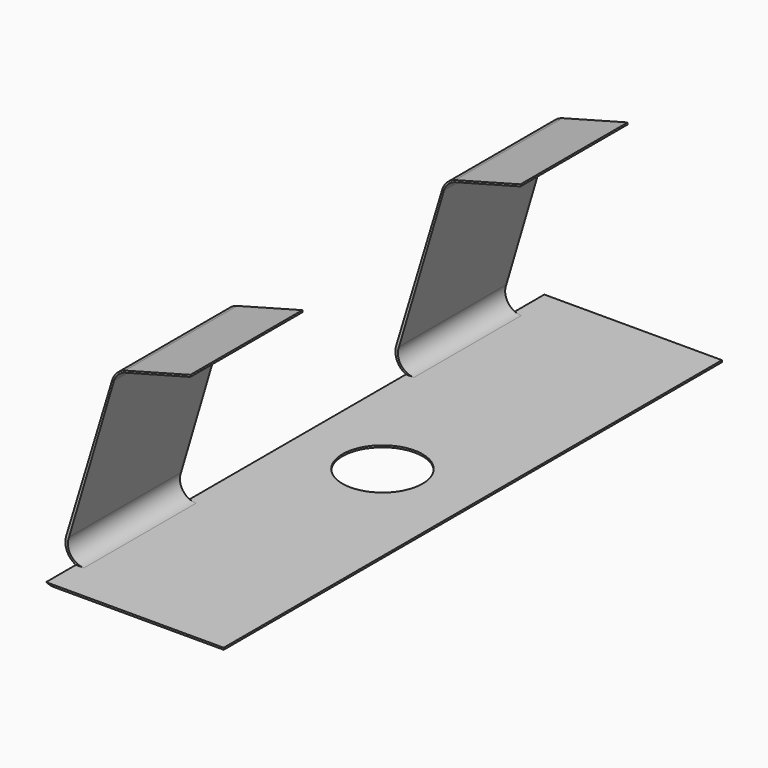
from build123d import *

# Parameters (mm, degrees)
F1_DEPTH = 25.4
F3_W     = 8.148129
F3_H     = 5.55625
F3_W_2   = 7.948229
F3_H_2   = 1.5875
F3_W_3   = 8.837929
F4_DEPTH = 25.4
F5_R     = 1.633227
F6_DEPTH = 25.4


with BuildPart() as f1:
    # F0 (on Front) → F1 (new body)
    with BuildSketch(Plane.XZ):
        with BuildLine():
            Line((-0.561085, 0), (0, 0))
            Line((0, 0), (6.35, 0))
            Line((6.35, 0), (6.35, 0.0762))
            Line((6.35, 0.0762), (-0.561085, 0.0762))
            ThreePointArc((-0.561085, 0.0762), (-1.107829, 0.366771), (-1.172913, 0.982501))
            Line((-1.172913, 0.982501), (0.660235, 7.192055))
            ThreePointArc((0.660235, 7.192055), (0.833247, 7.470557), (1.118945, 7.631408))
            Line((1.118945, 7.631408), (3.776279, 8.343177))
            Line((3.776279, 8.343177), (3.776279, 8.419377))
            Line((3.776279, 8.419377), (1.118945, 7.707608))
            ThreePointArc((1.118945, 7.707608), (0.785934, 7.518885), (0.586698, 7.192055))
            Line((0.586698, 7.192055), (-1.290484, 0.982501))
            ThreePointArc((-1.290484, 0.982501), (-1.172913, 0.307785), (-0.561085, 0))
        make_face()
    extrude(amount=F1_DEPTH)

    # F3 (on offset) → F4 (cut)
    with BuildSketch(Plane.XY.offset(0.0762)):
        with Locations((1.40282, -9.833681)):
            Rectangle(F3_W, F3_H)
        with Locations((0.910564, -0.79375)):
            Rectangle(F3_W_2, F3_H_2)
        with Locations((3.026584, -24.674151)):
            Rectangle(F3_W_3, F3_H_2)
        with Locations((1.40282, -15.389931)):
            Rectangle(F3_W, F3_H)
    extrude(amount=F4_DEPTH, mode=Mode.SUBTRACT)

    # F5 (on face) → F6 (cut)
    with BuildSketch(Plane.XY.offset(0.0762)):
        with Locations((2.596372, -12.611806)):
            Circle(F5_R)
    extrude(amount=-F6_DEPTH, mode=Mode.SUBTRACT)


solid = f1.part
